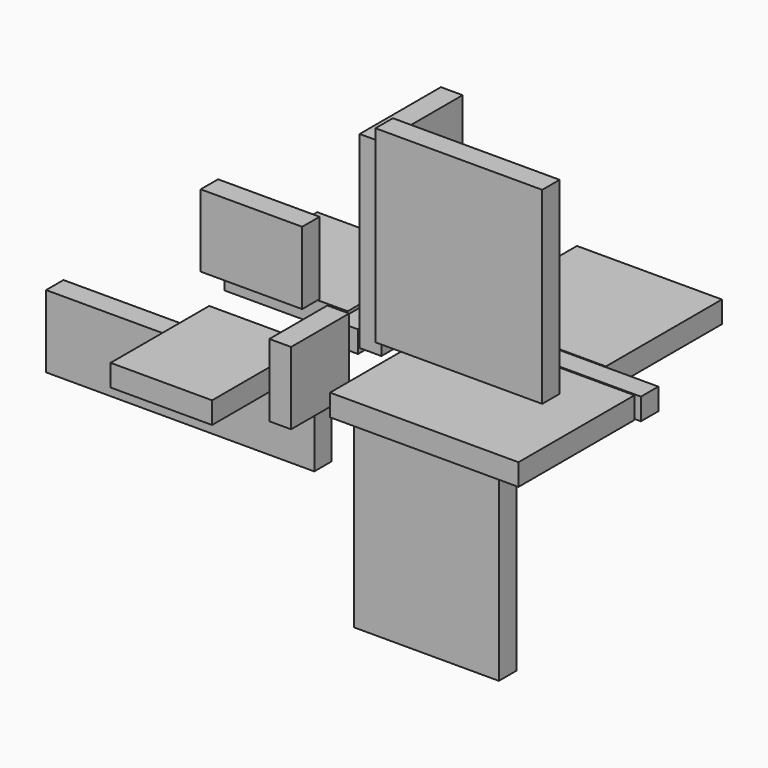
from build123d import *

# Parameters (mm, degrees)
F0_W      = 88.9
F0_H      = 165.1
F1_DEPTH  = 19.05
F2_W      = 63.5
F2_H      = 63.5
F3_DEPTH  = 19.05
F4_W      = 127
F4_H      = 127
F5_DEPTH  = 19.05
F6_W      = 107.95
F6_H      = 101.6
F7_DEPTH  = 19.05
F8_W      = 88.9
F8_H      = 63.5
F9_DEPTH  = 19.05
F10_W     = 127
F10_H     = 165.1
F11_DEPTH = 19.05
F12_W     = 165.1
F12_H     = 127
F13_DEPTH = 19.05
F14_W     = 146.05
F14_H     = 165.1
F15_DEPTH = 19.05
F16_W     = 234.95
F16_H     = 63.5
F17_DEPTH = 19.05
F18_W     = 88.9
F18_H     = 107.95
F19_DEPTH = 19.05
F20_W     = 165.1
F20_H     = 19.05
F21_DEPTH = 19.05
F22_W     = 19.05
F22_H     = 107.95
F23_DEPTH = 19.05


with BuildPart() as f1:
    # F0 (on Right) → F1 (new body)
    with BuildSketch(Plane.YZ):
        with Locations((52.620952, 88.752854)):
            Rectangle(F0_W, F0_H)
    extrude(amount=F1_DEPTH)


with BuildPart() as f3:
    # F2 (on Right) → F3 (new body)
    with BuildSketch(Plane.YZ):
        with Locations((-59.02932, 21.684153)):
            Rectangle(F2_W, F2_H)
    extrude(amount=F3_DEPTH)


with BuildPart() as f5:
    # F4 (on Top) → F5 (new body)
    with BuildSketch(Plane.XY):
        with Locations((100.457397, 136.375904)):
            Rectangle(F4_W, F4_H)
    extrude(amount=F5_DEPTH)


with BuildPart() as f7:
    # F6 (on Top) → F7 (new body)
    with BuildSketch(Plane.XY):
        with Locations((-79.042168, 77.111321)):
            Rectangle(F6_W, F6_H)
    extrude(amount=F7_DEPTH)


with BuildPart() as f9:
    # F8 (on Front) → F9 (new body)
    with BuildSketch(Plane.XZ):
        with Locations((-73.096486, 69.708673)):
            Rectangle(F8_W, F8_H)
    extrude(amount=F9_DEPTH)


with BuildPart() as f11:
    # F10 (on Front) → F11 (new body)
    with BuildSketch(Plane.XZ):
        with Locations((80.191935, -110.162609)):
            Rectangle(F10_W, F10_H)
    extrude(amount=F11_DEPTH)


with BuildPart() as f13:
    # F12 (on Top) → F13 (new body)
    with BuildSketch(Plane.XY):
        with Locations((123.370355, -11.846392)):
            Rectangle(F12_W, F12_H)
    extrude(amount=F13_DEPTH)


with BuildPart() as f15:
    # F14 (on Front) → F15 (new body)
    with BuildSketch(Plane.XZ):
        with Locations((108.625146, 115.814913)):
            Rectangle(F14_W, F14_H)
    extrude(amount=F15_DEPTH)


with BuildPart() as f17:
    # F16 (on Front) → F17 (new body)
    with BuildSketch(Plane.XZ):
        with Locations((-135.509282, -52.027315)):
            Rectangle(F16_W, F16_H)
    extrude(amount=F17_DEPTH)


with BuildPart() as f19:
    # F18 (on Top) → F19 (new body)
    with BuildSketch(Plane.XY):
        with Locations((-59.511982, -80.691455)):
            Rectangle(F18_W, F18_H)
    extrude(amount=F19_DEPTH)


with BuildPart() as f21:
    # F20 (on Top) → F21 (new body)
    with BuildSketch(Plane.XY):
        with Locations((128.050601, 62.378677)):
            Rectangle(F20_W, F20_H)
    extrude(amount=F21_DEPTH)


with BuildPart() as f23:
    # F22 (on Top) → F23 (new body)
    with BuildSketch(Plane.XY):
        with Locations((-12.33854, 63.785868)):
            Rectangle(F22_W, F22_H)
    extrude(amount=F23_DEPTH)


solid = Compound([f1.part, f3.part, f5.part, f7.part, f9.part, f11.part, f13.part, f15.part, f17.part, f19.part, f21.part, f23.part])
